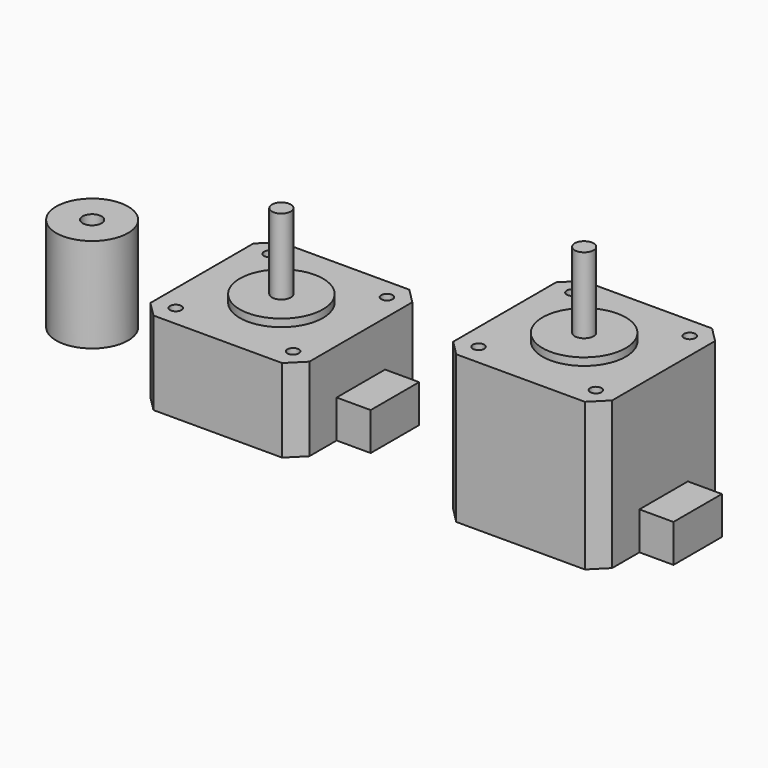
from build123d import *

# Parameters (mm, degrees)
F1_DEPTH  = 39
F2_R      = 11
F3_DEPTH  = 2
F4_R      = 2.5
F5_DEPTH  = 20
F6_W      = 16
F6_H      = 10
F7_DEPTH  = 9
F12_DEPTH = 22
F13_R     = 11
F14_DEPTH = 2
F15_R     = 2.5
F16_DEPTH = 20
F17_W     = 16
F17_H     = 10
F18_DEPTH = 9
F19_R     = 9.5
F19_R_2   = 2.5
F20_DEPTH = 25
F21_R     = 4
F22_DEPTH = 12.5
F23_R     = 1.5
F24_DEPTH = 25


with BuildPart() as f1:
    # F0 (on Top) → F1 (new body)
    with BuildSketch(Plane.XY):
        Polygon((-17, 21), (-21, 17), (-21, -17), (-17, -21), (17, -21), (21, -17), (21, 17), (17, 21), align=None)
    extrude(amount=F1_DEPTH)

    # F2 (on face) → F3 (join)
    with BuildSketch(Plane.XY.offset(39)):
        Circle(F2_R)
    extrude(amount=F3_DEPTH)

    # F4 (on face) → F5 (join)
    with BuildSketch(Plane.XY.offset(41)):
        Circle(F4_R)
    extrude(amount=F5_DEPTH)

    # F6 (on face) → F7 (join)
    with BuildSketch(Plane.YZ.offset(21)):
        with Locations((0, 5)):
            Rectangle(F6_W, F6_H)
    extrude(amount=F7_DEPTH)


with BuildPart() as f8_1:
    # F8: copy of F1
    add(f1.part.moved(Location((82.6, 0, 0))))


with BuildPart() as f1_1:
    # F10: moved
    add(f1.part.moved(Location((80, 0, 0))))


with BuildPart() as f12:
    # F11 (on Top) → F12 (new body)
    with BuildSketch(Plane.XY):
        Polygon((-17, 21), (-21, 17), (-21, -17), (-17, -21), (17, -21), (21, -17), (21, 17), (17, 21), align=None)
    extrude(amount=F12_DEPTH)

    # F13 (on face) → F14 (join)
    with BuildSketch(Plane.XY.offset(22)):
        Circle(F13_R)
    extrude(amount=F14_DEPTH)

    # F15 (on face) → F16 (join)
    with BuildSketch(Plane.XY.offset(24)):
        Circle(F15_R)
    extrude(amount=F16_DEPTH)

    # F17 (on face) → F18 (join)
    with BuildSketch(Plane.YZ.offset(21)):
        with Locations((0, 5)):
            Rectangle(F17_W, F17_H)
    extrude(amount=F18_DEPTH)


with BuildPart() as f20:
    # F19 (on Top) → F20 (new body)
    with BuildSketch(Plane.XY):
        with Locations((-50, 0)):
            Circle(F19_R)
        with Locations((-50, 0)):
            Circle(F19_R_2, mode=Mode.SUBTRACT)
    extrude(amount=F20_DEPTH)

    # F21 (on face) → F22 (cut)
    with BuildSketch(Plane(origin=(0, 0, 0), x_dir=(1, 0, 0), z_dir=(0, 0, -1))):
        with Locations((-50, 0)):
            Circle(F21_R)
    extrude(amount=-F22_DEPTH, mode=Mode.SUBTRACT)


with BuildPart() as f24_tool:
    # F23 (on face) → F24 (new body)
    with BuildSketch(Plane.XY.offset(39)):
        with Locations((-15.5, 15.5)):
            Circle(F23_R)
        with Locations((15.5, 15.5)):
            Circle(F23_R)
        with Locations((15.5, -15.5)):
            Circle(F23_R)
        with Locations((-15.5, -15.5)):
            Circle(F23_R)
        with Locations((64.5, -15.5)):
            Circle(F23_R)
        with Locations((64.5, 15.5)):
            Circle(F23_R)
        with Locations((95.5, 15.5)):
            Circle(F23_R)
        with Locations((95.5, -15.5)):
            Circle(F23_R)
    extrude(amount=-F24_DEPTH)


with BuildPart() as f1_2:
    add(f1_1.part)

    # F24: cut by f24_tool
    add(f24_tool.part, mode=Mode.SUBTRACT)


with BuildPart() as f12_1:
    add(f12.part)

    # F24: cut by f24_tool
    add(f24_tool.part, mode=Mode.SUBTRACT)


solid = Compound([f20.part, f1_2.part, f12_1.part])
